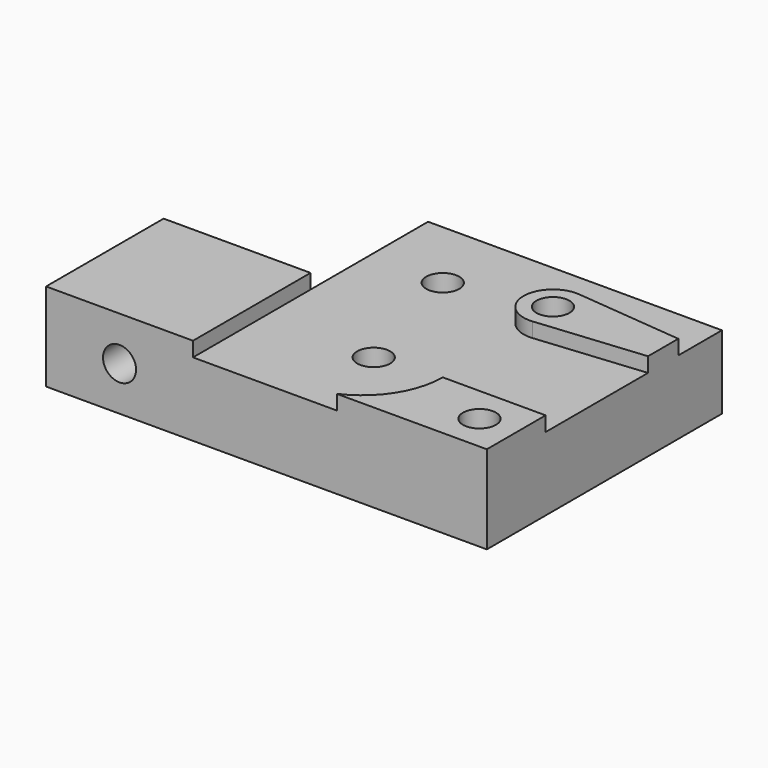
from build123d import *

# Parameters (mm, degrees)
SKETCH_R                       = 2.25
PAD_DEPTH                      = 12
POCKET_DEPTH                   = 2
SKETCH002_R                    = 2.25
POCKET002_DEPTH                = 20.001
PART_MIRRORING_PLACEMENT_ANGLE = 180


with BuildPart() as pocket002:
    # Sketch → Pad (new body)
    with BuildSketch(Plane.XY):
        Polygon((0, -20), (40, -20), (40, 20), (-20, 20), (-20, 0), (0, 0), align=None)
        with Locations((15, 8)):
            Circle(SKETCH_R, mode=Mode.SUBTRACT)
        with Locations((10, -10)):
            Circle(SKETCH_R, mode=Mode.SUBTRACT)
        with Locations((35, 15)):
            Circle(SKETCH_R, mode=Mode.SUBTRACT)
        with Locations((25, -10)):
            Circle(SKETCH_R, mode=Mode.SUBTRACT)
    extrude(amount=PAD_DEPTH)

    # Sketch001 → Pocket (cut)
    with BuildSketch(Plane.XY.offset(12)):
        with BuildLine():
            Line((46, 10), (26, 10))
            ThreePointArc((26, 10), (22.778175, 17.778175), (15, 21))
            Line((15, 21), (0, 21))
            Line((0, 21), (0, -23))
            Line((0, -23), (46, -23))
            Line((46, -23), (46, -12))
            Line((25.382674, -13.981653), (46, -12))
            ThreePointArc((25.382674, -6.018347), (21, -10), (25.382674, -13.981653))
            Line((25.382674, -6.018347), (46, -8))
            Line((46, -8), (46, 10))
        make_face()
    extrude(amount=-POCKET_DEPTH, mode=Mode.SUBTRACT)

    # Sketch002 → Pocket002 (cut, through all)
    with BuildSketch(Plane.XZ):
        with Locations((-10, 6)):
            Circle(SKETCH002_R)
    extrude(amount=-POCKET002_DEPTH, mode=Mode.SUBTRACT)


with BuildPart() as idler_block_top:
    # Part__Mirroring: instance of Pocket002
    add(pocket002.part.mirror(Plane(origin=(0, 0, 0), x_dir=(0, 1, 0), z_dir=(0, 0, 1))))


with BuildPart() as idler_block_top_1:
    # Part__Mirroring placement: moved
    add(idler_block_top.part.rotate(Axis((0, 0, 0), (1, 0, 0)), PART_MIRRORING_PLACEMENT_ANGLE))


solid = idler_block_top_1.part
